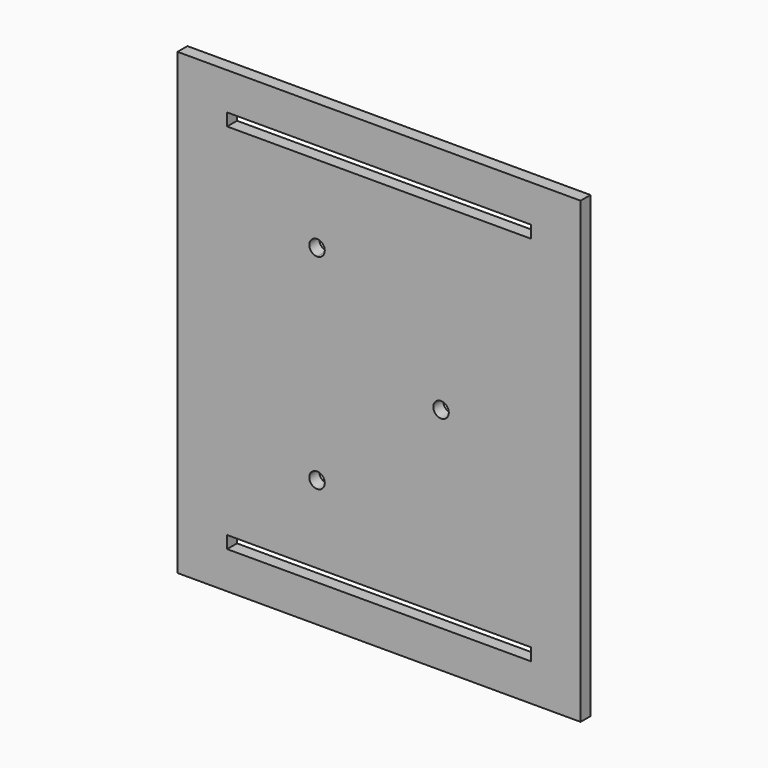
from build123d import *

# Parameters (mm, degrees)
F0_W     = 165.1
F0_H     = 187.96
F1_DEPTH = 5.08
F2_W     = 124.46
F2_H     = 5.08
F3_DEPTH = 25.4
F5_DEPTH = 25.4


with BuildPart() as f1:
    # F0 (on Front) → F1 (new body)
    with BuildSketch(Plane.XZ):
        with Locations((82.55, -93.98)):
            Rectangle(F0_W, F0_H)
    extrude(amount=F1_DEPTH)

    # F2 (on face) → F3 (cut)
    with BuildSketch(Plane.XZ.offset(5.08)):
        with Locations((82.55, -17.78)):
            Rectangle(F2_W, F2_H)
        with Locations((82.55, -170.18)):
            Rectangle(F2_W, F2_H)
    extrude(amount=-F3_DEPTH, mode=Mode.SUBTRACT)

    # F4 (on face) → F5 (cut)
    with BuildSketch(Plane.XZ.offset(5.08)):
        with BuildLine():
            ThreePointArc((111.125, -93.98), (107.95, -90.805), (104.775, -93.98))
            ThreePointArc((104.775, -93.98), (107.95, -97.155), (111.125, -93.98))
        make_face()
        with BuildLine():
            ThreePointArc((60.325, -135.89), (59.395064, -133.644936), (57.15, -132.715))
            ThreePointArc((57.15, -132.715), (54.904936, -138.135064), (60.325, -135.89))
        make_face()
        with BuildLine():
            ThreePointArc((60.325, -52.07), (54.904936, -49.824936), (57.15, -55.245))
            ThreePointArc((57.15, -55.245), (59.395064, -54.315064), (60.325, -52.07))
        make_face()
    extrude(amount=-F5_DEPTH, mode=Mode.SUBTRACT)


solid = f1.part
